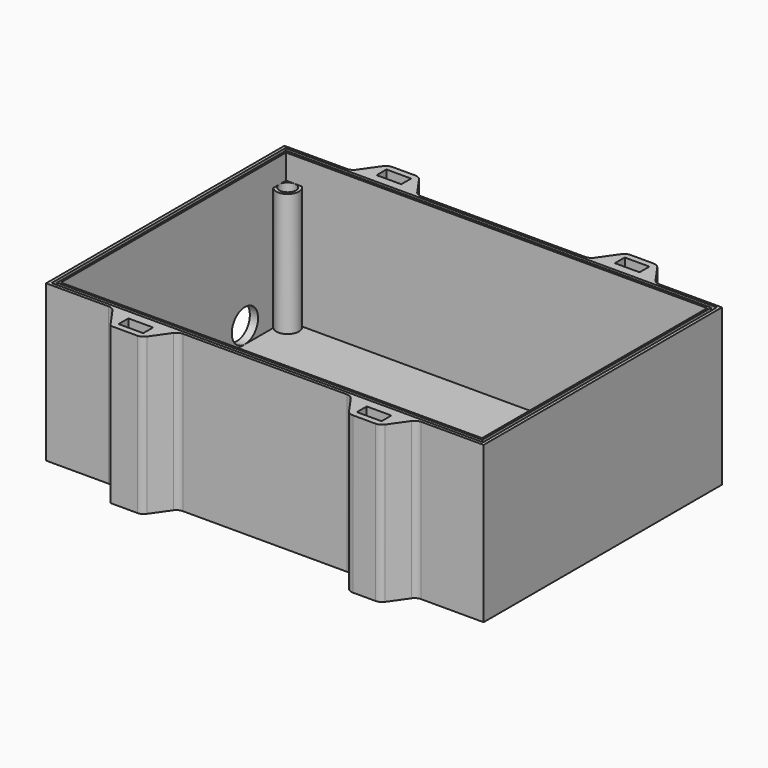
from build123d import *

# Parameters (mm, degrees)
F0_W      = 106.5
F0_H      = 72.5
F1_DEPTH  = 38
F2_T      = -2
F3_W      = 6
F3_H      = 3
F4_DEPTH  = 38
F5_R      = 2
F6_R      = 4
F7_DEPTH  = 2
F8_R      = 2.75
F8_R_2    = 2
F9_DEPTH  = 30
F10_W     = 105
F10_H     = 71.125
F10_W_2   = 103.5
F10_H_2   = 69.625
F11_DEPTH = 1.5


with BuildPart() as f1:
    # F0 (on Top) → F1 (new body)
    with BuildSketch(Plane.XY):
        with Locations((-53.25, 36.25)):
            Rectangle(F0_W, F0_H)
    extrude(amount=F1_DEPTH)

    # F2
    f2_openings = [f1.faces().sort_by_distance(p)[0] for p in [
        (-53.25, 36.25, 38),
    ]]
    offset(amount=F2_T, openings=f2_openings)

    # F3 (on Top) → F4 (join)
    with BuildSketch(Plane.XY):
        Polygon((-28.048755, 78.5), (-32.25, 72.5), (-16.25, 72.5), (-20.451245, 78.5), align=None)
        with Locations((-24.25, 75.5)):
            Rectangle(F3_W, F3_H, mode=Mode.SUBTRACT)
        Polygon((-74.25, 72.5), (-78.451245, 78.5), (-86.048755, 78.5), (-90.25, 72.5), align=None)
        with Locations((-82.25, 75.5)):
            Rectangle(F3_W, F3_H, mode=Mode.SUBTRACT)
        Polygon((-74.25, 0), (-90.25, 0), (-86.048755, -6), (-78.451245, -6), align=None)
        with Locations((-82.25, -3)):
            Rectangle(F3_W, F3_H, mode=Mode.SUBTRACT)
        Polygon((-32.25, 0), (-28.048755, -6), (-20.451245, -6), (-16.25, 0), align=None)
        with Locations((-24.25, -3)):
            Rectangle(F3_W, F3_H, mode=Mode.SUBTRACT)
    extrude(amount=F4_DEPTH)

    # F5
    f5_edges = [f1.edges().sort_by_distance(p)[0] for p in [
        (-86.048755, 78.5, 19),
        (-78.451245, 78.5, 19),
        (-74.25, 72.5, 19),
        (-90.25, 72.5, 19),
        (-32.25, 72.5, 19),
        (-28.048755, 78.5, 19),
        (-20.451245, 78.5, 19),
        (-16.25, 72.5, 19),
        (-74.25, 0, 19),
        (-78.451245, -6, 19),
        (-90.25, 0, 19),
        (-32.25, 0, 19),
        (-28.048755, -6, 19),
        (-20.451245, -6, 19),
        (-16.25, 0, 19),
    ]]
    fillet(f5_edges, radius=F5_R)

    # F6 (on face) → F7 (cut, through all)
    with BuildSketch(Plane(origin=(-106.5, 0, 0), x_dir=(0, -1, 0), z_dir=(-1, 0, 0))):
        with Locations((-58, 6)):
            Circle(F6_R)
    extrude(amount=-F7_DEPTH, mode=Mode.SUBTRACT)

    # F8 (on face) → F9 (join)
    with BuildSketch(Plane.XY.offset(2)):
        with Locations((-102.5, 68.5)):
            Circle(F8_R)
        with Locations((-102.5, 68.5)):
            Circle(F8_R_2, mode=Mode.SUBTRACT)
        with Locations((-4, 68.5)):
            Circle(F8_R)
        with Locations((-4, 68.5)):
            Circle(F8_R_2, mode=Mode.SUBTRACT)
        with Locations((-4, 4)):
            Circle(F8_R)
        with Locations((-4, 4)):
            Circle(F8_R_2, mode=Mode.SUBTRACT)
        with Locations((-102.5, 4)):
            Circle(F8_R)
        with Locations((-102.5, 4)):
            Circle(F8_R_2, mode=Mode.SUBTRACT)
    extrude(amount=F9_DEPTH)

    # F10 (on face) → F11 (cut)
    with BuildSketch(Plane.XY.offset(38)):
        with Locations((-53.25, 36.3125)):
            Rectangle(F10_W, F10_H)
        with Locations((-53.25, 36.3125)):
            Rectangle(F10_W_2, F10_H_2, mode=Mode.SUBTRACT)
    extrude(amount=-F11_DEPTH, mode=Mode.SUBTRACT)


solid = f1.part
